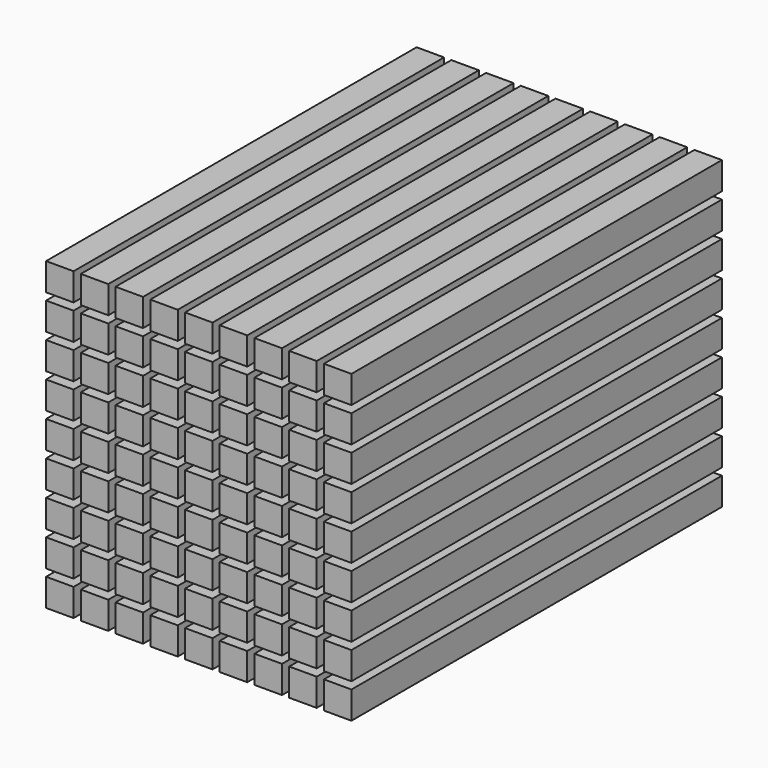
from build123d import *

# Parameters (mm, degrees)
F0_W     = 9.5
F0_H     = 9.5
F1_DEPTH = 160


with BuildPart() as f1:
    # F0 (on Front) → F1 (new body)
    with BuildSketch(Plane.XZ):
        with Locations((-41.705946, 54.739921)):
            Rectangle(F0_W, F0_H)
        with Locations((-41.705946, 42.739921)):
            Rectangle(F0_W, F0_H)
        with Locations((-41.705946, 30.739921)):
            Rectangle(F0_W, F0_H)
        with Locations((-41.705946, 18.739921)):
            Rectangle(F0_W, F0_H)
        with Locations((-41.705946, 6.739921)):
            Rectangle(F0_W, F0_H)
        with Locations((-41.705946, -5.260079)):
            Rectangle(F0_W, F0_H)
        with Locations((-41.705946, -17.260079)):
            Rectangle(F0_W, F0_H)
        with Locations((-41.705946, -29.260079)):
            Rectangle(F0_W, F0_H)
        with Locations((-41.705946, -41.260079)):
            Rectangle(F0_W, F0_H)
        with Locations((-29.705946, 54.739921)):
            Rectangle(F0_W, F0_H)
        with Locations((-29.705946, 42.739921)):
            Rectangle(F0_W, F0_H)
        with Locations((-29.705946, 30.739921)):
            Rectangle(F0_W, F0_H)
        with Locations((-29.705946, 18.739921)):
            Rectangle(F0_W, F0_H)
        with Locations((-29.705946, 6.739921)):
            Rectangle(F0_W, F0_H)
        with Locations((-29.705946, -5.260079)):
            Rectangle(F0_W, F0_H)
        with Locations((-29.705946, -17.260079)):
            Rectangle(F0_W, F0_H)
        with Locations((-29.705946, -29.260079)):
            Rectangle(F0_W, F0_H)
        with Locations((-29.705946, -41.260079)):
            Rectangle(F0_W, F0_H)
        with Locations((-17.705946, 54.739921)):
            Rectangle(F0_W, F0_H)
        with Locations((-17.705946, 42.739921)):
            Rectangle(F0_W, F0_H)
        with Locations((-17.705946, 30.739921)):
            Rectangle(F0_W, F0_H)
        with Locations((-17.705946, 18.739921)):
            Rectangle(F0_W, F0_H)
        with Locations((-17.705946, 6.739921)):
            Rectangle(F0_W, F0_H)
        with Locations((-17.705946, -5.260079)):
            Rectangle(F0_W, F0_H)
        with Locations((-17.705946, -17.260079)):
            Rectangle(F0_W, F0_H)
        with Locations((-17.705946, -29.260079)):
            Rectangle(F0_W, F0_H)
        with Locations((-17.705946, -41.260079)):
            Rectangle(F0_W, F0_H)
        with Locations((-5.705946, 54.739921)):
            Rectangle(F0_W, F0_H)
        with Locations((-5.705946, 42.739921)):
            Rectangle(F0_W, F0_H)
        with Locations((-5.705946, 30.739921)):
            Rectangle(F0_W, F0_H)
        with Locations((-5.705946, 18.739921)):
            Rectangle(F0_W, F0_H)
        with Locations((-5.705946, 6.739921)):
            Rectangle(F0_W, F0_H)
        with Locations((-5.705946, -5.260079)):
            Rectangle(F0_W, F0_H)
        with Locations((-5.705946, -17.260079)):
            Rectangle(F0_W, F0_H)
        with Locations((-5.705946, -29.260079)):
            Rectangle(F0_W, F0_H)
        with Locations((-5.705946, -41.260079)):
            Rectangle(F0_W, F0_H)
        with Locations((6.294054, 54.739921)):
            Rectangle(F0_W, F0_H)
        with Locations((6.294054, 42.739921)):
            Rectangle(F0_W, F0_H)
        with Locations((6.294054, 30.739921)):
            Rectangle(F0_W, F0_H)
        with Locations((6.294054, 18.739921)):
            Rectangle(F0_W, F0_H)
        with Locations((6.294054, 6.739921)):
            Rectangle(F0_W, F0_H)
        with Locations((6.294054, -5.260079)):
            Rectangle(F0_W, F0_H)
        with Locations((6.294054, -17.260079)):
            Rectangle(F0_W, F0_H)
        with Locations((6.294054, -29.260079)):
            Rectangle(F0_W, F0_H)
        with Locations((6.294054, -41.260079)):
            Rectangle(F0_W, F0_H)
        with Locations((18.294054, 54.739921)):
            Rectangle(F0_W, F0_H)
        with Locations((18.294054, 42.739921)):
            Rectangle(F0_W, F0_H)
        with Locations((18.294054, 30.739921)):
            Rectangle(F0_W, F0_H)
        with Locations((18.294054, 18.739921)):
            Rectangle(F0_W, F0_H)
        with Locations((18.294054, 6.739921)):
            Rectangle(F0_W, F0_H)
        with Locations((18.294054, -5.260079)):
            Rectangle(F0_W, F0_H)
        with Locations((18.294054, -17.260079)):
            Rectangle(F0_W, F0_H)
        with Locations((18.294054, -29.260079)):
            Rectangle(F0_W, F0_H)
        with Locations((18.294054, -41.260079)):
            Rectangle(F0_W, F0_H)
        with Locations((30.294054, 54.739921)):
            Rectangle(F0_W, F0_H)
        with Locations((30.294054, 42.739921)):
            Rectangle(F0_W, F0_H)
        with Locations((30.294054, 30.739921)):
            Rectangle(F0_W, F0_H)
        with Locations((30.294054, 18.739921)):
            Rectangle(F0_W, F0_H)
        with Locations((30.294054, 6.739921)):
            Rectangle(F0_W, F0_H)
        with Locations((30.294054, -5.260079)):
            Rectangle(F0_W, F0_H)
        with Locations((30.294054, -17.260079)):
            Rectangle(F0_W, F0_H)
        with Locations((30.294054, -29.260079)):
            Rectangle(F0_W, F0_H)
        with Locations((30.294054, -41.260079)):
            Rectangle(F0_W, F0_H)
        with Locations((42.294054, 54.739921)):
            Rectangle(F0_W, F0_H)
        with Locations((42.294054, 42.739921)):
            Rectangle(F0_W, F0_H)
        with Locations((42.294054, 30.739921)):
            Rectangle(F0_W, F0_H)
        with Locations((42.294054, 18.739921)):
            Rectangle(F0_W, F0_H)
        with Locations((42.294054, 6.739921)):
            Rectangle(F0_W, F0_H)
        with Locations((42.294054, -5.260079)):
            Rectangle(F0_W, F0_H)
        with Locations((42.294054, -17.260079)):
            Rectangle(F0_W, F0_H)
        with Locations((42.294054, -29.260079)):
            Rectangle(F0_W, F0_H)
        with Locations((42.294054, -41.260079)):
            Rectangle(F0_W, F0_H)
        with Locations((54.294054, 54.739921)):
            Rectangle(F0_W, F0_H)
        with Locations((54.294054, 42.739921)):
            Rectangle(F0_W, F0_H)
        with Locations((54.294054, 30.739921)):
            Rectangle(F0_W, F0_H)
        with Locations((54.294054, 18.739921)):
            Rectangle(F0_W, F0_H)
        with Locations((54.294054, 6.739921)):
            Rectangle(F0_W, F0_H)
        with Locations((54.294054, -5.260079)):
            Rectangle(F0_W, F0_H)
        with Locations((54.294054, -17.260079)):
            Rectangle(F0_W, F0_H)
        with Locations((54.294054, -29.260079)):
            Rectangle(F0_W, F0_H)
        with Locations((54.294054, -41.260079)):
            Rectangle(F0_W, F0_H)
    extrude(amount=F1_DEPTH)


solid = f1.part
